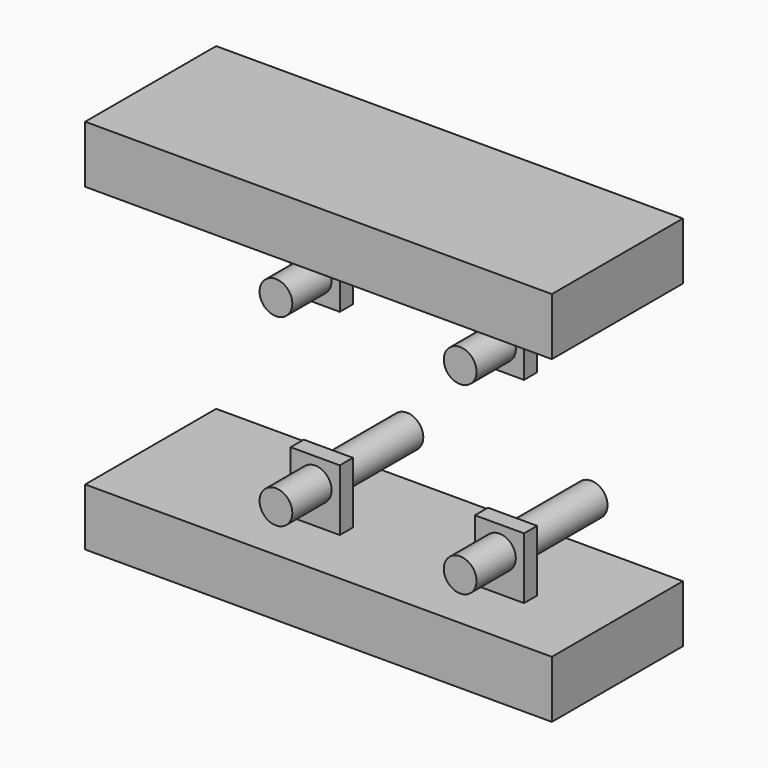
from build123d import *

# Parameters (mm, degrees)
BOX052_W                = 57
BOX052_H                = 20
BOX052_DEPTH            = 7
BOX051_W                = 57
BOX051_H                = 20
BOX051_DEPTH            = 7
BOX048_W                = 6
BOX048_H                = 2
BOX048_DEPTH            = 12
BOX049_W                = 6
BOX049_H                = 2
BOX049_DEPTH            = 12
BOX050_W                = 6
BOX050_H                = 2
BOX050_DEPTH            = 12
BOX047_W                = 6
BOX047_H                = 2
BOX047_DEPTH            = 12
CYLINDER086_R           = 2
CYLINDER086_DEPTH       = 20
CYLINDER087_R           = 2
CYLINDER087_DEPTH       = 20
CYLINDER085_R           = 2
CYLINDER085_DEPTH       = 20
CYLINDER084_R           = 2
CYLINDER084_DEPTH       = 20
FUSION026029_ROLL_ANGLE = 90


with BuildPart() as obj1:
    # Box052 → Box052 (new body)
    with BuildSketch(Plane(origin=(0, 13, 31), x_dir=(1, 0, 0), z_dir=(0, 0, 1))):
        with Locations((28.5, 10)):
            Rectangle(BOX052_W, BOX052_H)
    extrude(amount=BOX052_DEPTH)


with BuildPart() as sidecut:
    # Box051 → Box051 (new body)
    with BuildSketch(Plane(origin=(0, 13, -8), x_dir=(1, 0, 0), z_dir=(0, 0, 1))):
        with Locations((28.5, 10)):
            Rectangle(BOX051_W, BOX051_H)
    extrude(amount=BOX051_DEPTH)

    # Fusion026036: union obj1
    add(obj1.part)


with BuildPart() as obj2:
    # Box048 → Box048 (new body)
    with BuildSketch(Plane(origin=(42, -4, -5.5), x_dir=(1, 0, 0), z_dir=(0, 0, 1))):
        with Locations((3, 1)):
            Rectangle(BOX048_W, BOX048_H)
    extrude(amount=BOX048_DEPTH)


with BuildPart() as obj3:
    # Box049 → Box049 (new body)
    with BuildSketch(Plane(origin=(19.5, -4, -5.5), x_dir=(1, 0, 0), z_dir=(0, 0, 1))):
        with Locations((3, 1)):
            Rectangle(BOX049_W, BOX049_H)
    extrude(amount=BOX049_DEPTH)


with BuildPart() as obj4:
    # Box050 → Box050 (new body)
    with BuildSketch(Plane(origin=(42, -4, 23), x_dir=(1, 0, 0), z_dir=(0, 0, 1))):
        with Locations((3, 1)):
            Rectangle(BOX050_W, BOX050_H)
    extrude(amount=BOX050_DEPTH)


with BuildPart() as mutterschlitz:
    # Box047 → Box047 (new body)
    with BuildSketch(Plane(origin=(19.5, -4, 23), x_dir=(1, 0, 0), z_dir=(0, 0, 1))):
        with Locations((3, 1)):
            Rectangle(BOX047_W, BOX047_H)
    extrude(amount=BOX047_DEPTH)

    # Fusion026034: union obj2, obj3, obj4
    add(obj2.part)
    add(obj3.part)
    add(obj4.part)


with BuildPart() as zylinder077:
    # Cylinder086 → Cylinder086 (new body)
    with BuildSketch(Plane(origin=(19, 14, 0), x_dir=(1, 0, 0), z_dir=(0, 0, 1))):
        Circle(CYLINDER086_R)
    extrude(amount=CYLINDER086_DEPTH)


with BuildPart() as zylinder078:
    # Cylinder087 → Cylinder087 (new body)
    with BuildSketch(Plane(origin=(19, 36.5, 0), x_dir=(1, 0, 0), z_dir=(0, 0, 1))):
        Circle(CYLINDER087_R)
    extrude(amount=CYLINDER087_DEPTH)


with BuildPart() as zylinder076:
    # Cylinder085 → Cylinder085 (new body)
    with BuildSketch(Plane(origin=(-3.5, 36.5, 0), x_dir=(1, 0, 0), z_dir=(0, 0, 1))):
        Circle(CYLINDER085_R)
    extrude(amount=CYLINDER085_DEPTH)


with BuildPart() as obj5:
    # Cylinder084 → Cylinder084 (new body)
    with BuildSketch(Plane(origin=(-3.5, 14, 0), x_dir=(1, 0, 0), z_dir=(0, 0, 1))):
        Circle(CYLINDER084_R)
    extrude(amount=CYLINDER084_DEPTH)

    # Fusion026029: union Zylinder077, Zylinder078, Zylinder076
    add(zylinder077.part)
    add(zylinder078.part)
    add(zylinder076.part)


with BuildPart() as obj5_1:
    # Fusion026029 roll: moved
    add(obj5.part.rotate(Axis((0, 0, 0), (1, 0, 0)), FUSION026029_ROLL_ANGLE))


with BuildPart() as obj5_2:
    # Fusion026029 placement: moved
    add(obj5_1.part.moved(Location((26, 10, -10.5))))

    # Fusion026035: union MutterSchlitz
    add(mutterschlitz.part)


with BuildPart() as obj5_3:
    # Fusion026035 placement: moved
    add(obj5_2.part.moved(Location((0, 24, 0))))

    # Fusion026037: union SideCut
    add(sidecut.part)


solid = obj5_3.part
